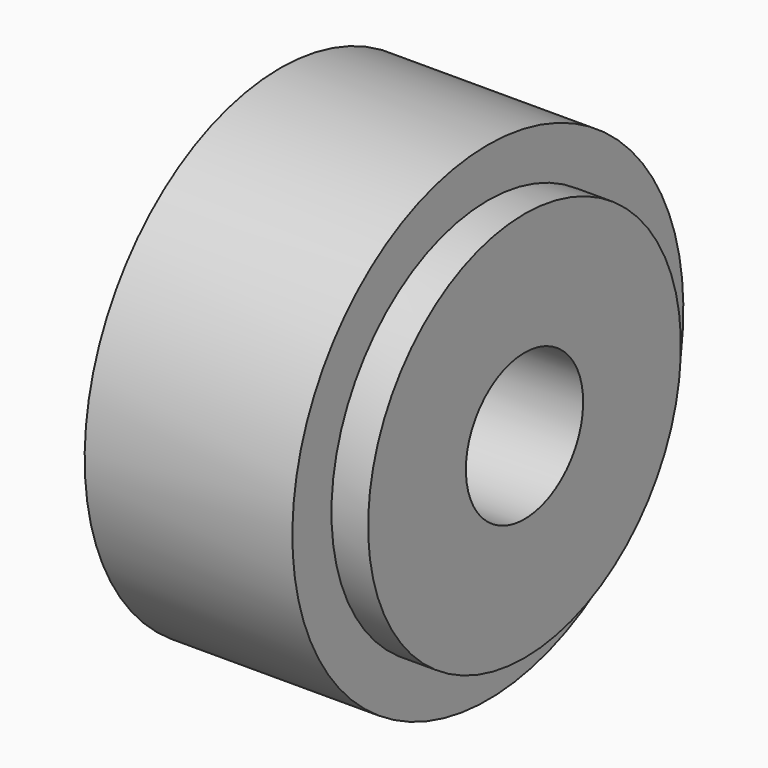
from build123d import *

# Parameters (mm, degrees)
F0_W = 3
F0_H = 10
F2_W = 17
F2_H = 14


with BuildPart() as f1:
    # F0 (on Front) → F1 (revolve)
    with BuildSketch(Plane.XZ):
        with Locations((1.5, 11)):
            Rectangle(F0_W, F0_H)
    revolve(axis=Axis((26.689221, 0, 0), (1, 0, 0)))

    # F2 (on Front) + F0 (on Front) → F3 (revolve)
    with BuildSketch(Plane.XZ):
        with Locations((-8.5, 13)):
            Rectangle(F2_W, F2_H)
    with BuildSketch(Plane.XZ):
        with Locations((1.5, 11)):
            Rectangle(F0_W, F0_H)
    revolve(axis=Axis((26.689221, 0, 0), (1, 0, 0)))


solid = f1.part
